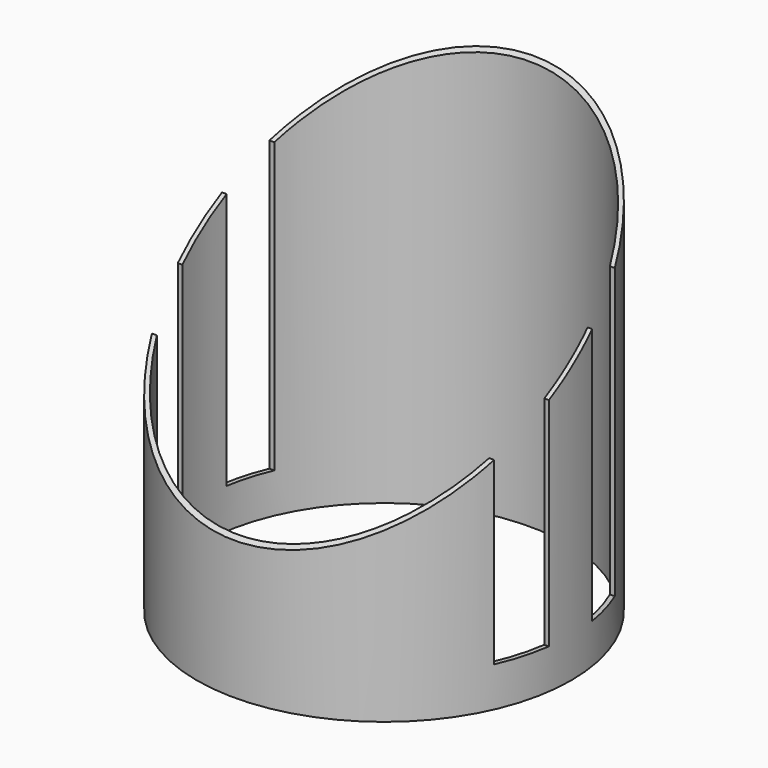
from build123d import *

# Parameters (mm, degrees)
F0_R      = 22.907165
F1_DEPTH  = 51.1
F4_DEPTH  = 106.8
F5_R      = 22.356235
F5_R_2    = 21
F6_DEPTH  = 54.8
F7_R      = 21.538885
F8_DEPTH  = 64.2
F9_W      = 6.154686
F9_H      = 33.235299
F9_W_2    = 5.339459
F9_H_2    = 37.849365
F10_DEPTH = 98.8
F11_DEPTH = 96.1


with BuildPart() as f1:
    # F0 (on Top) → F1 (new body)
    with BuildSketch(Plane.XY):
        Circle(F0_R)
    extrude(amount=F1_DEPTH)

    # F3 (on offset) → F4 (cut)
    with BuildSketch(Plane.YZ.offset(-32.2)):
        Polygon((-46.021562, 0), (31.365387, 56.67308), (-37.553031, 54.173857), align=None)
    extrude(amount=F4_DEPTH, mode=Mode.SUBTRACT)

    # F5 (on Top) → F6 (cut)
    with BuildSketch(Plane.XY):
        Circle(F5_R)
        Circle(F5_R_2, mode=Mode.SUBTRACT)
    extrude(amount=F6_DEPTH, mode=Mode.SUBTRACT)

    # F7 (on Top) → F8 (cut)
    with BuildSketch(Plane.XY):
        Circle(F7_R)
    extrude(amount=F8_DEPTH, mode=Mode.SUBTRACT)

    # F9 (on offset) → F10 (cut)
    with BuildSketch(Plane.YZ.offset(-32.2)):
        with Locations((-6.243853, 21.483376)):
            Rectangle(F9_W, F9_H)
        with Locations((6.204987, 23.790409)):
            Rectangle(F9_W_2, F9_H_2)
    extrude(amount=F10_DEPTH, mode=Mode.SUBTRACT)

    # F9 (on offset) → F11 (cut)
    with BuildSketch(Plane.YZ.offset(-32.2)):
        with Locations((-6.243853, 21.483376)):
            Rectangle(F9_W, F9_H)
        with Locations((6.204987, 23.790409)):
            Rectangle(F9_W_2, F9_H_2)
    extrude(amount=F11_DEPTH, mode=Mode.SUBTRACT)


solid = f1.part
